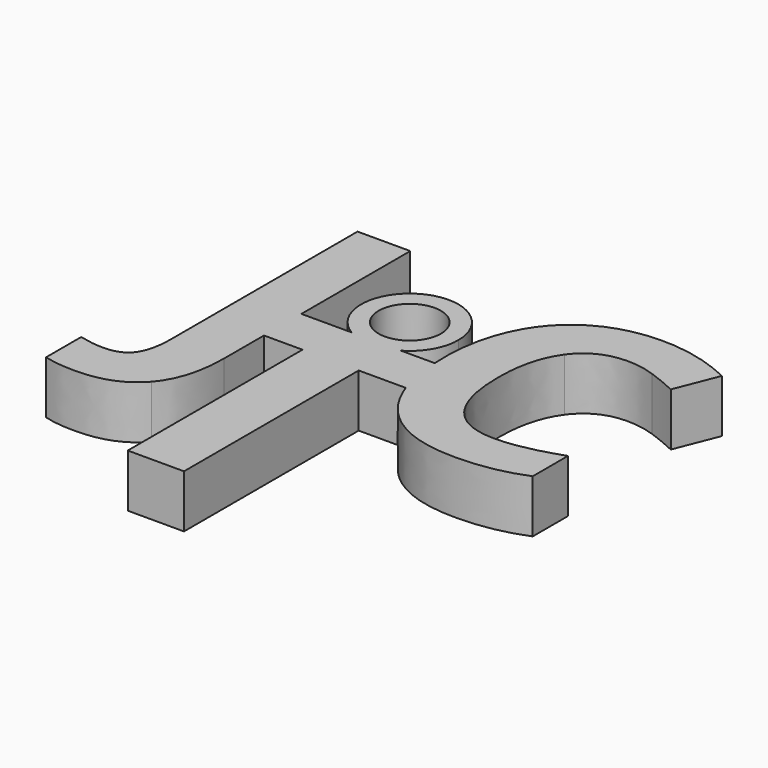
from build123d import *

# Parameters (mm, degrees)
F0_R     = 5.966240135
F0_W     = 6.4319284421
F0_H     = 8.9723766592
F1_DEPTH = 10.16


with BuildPart() as f1:
    # F0 (on Top) → F1 (new body)
    with BuildSketch(Plane.XY):
        with BuildLine():
            ThreePointArc((-100.3382074425, 37.6670937348), (-96.9809881445, 41.0712390667), (-95.7542298135, 45.6922985613))
            ThreePointArc((-95.7542298135, 45.6922985613), (-109.6921719724, 53.7824228946), (-109.804017513, 37.6670937348))
            Line((-109.804017513, 37.6670937348), (-100.3382074425, 37.6670937348))
        make_face()
        with Locations((-105.0711124778, 45.6922985613)):
            Circle(F0_R, mode=Mode.SUBTRACT)
        with BuildLine():
            Line((-100.3382074425, 37.6670937348), (-109.804017513, 37.6670937348))
            ThreePointArc((-109.804017513, 37.6670937348), (-105.0711124778, 36.3754158971), (-100.3382074425, 37.6670937348))
        make_face()
        with BuildLine():
            ThreePointArc((-100.3382074425, 37.6670937348), (-105.0711124778, 36.3754158971), (-109.804017513, 37.6670937348))
            Line((-109.804017513, 37.6670937348), (-119.439290472, 37.6670937348))
            Line((-119.439290472, 37.6670937348), (-119.439290472, 28.6947170757))
            Line((-119.439290472, 28.6947170757), (-112.0564305344, 28.6947170757))
            Line((-112.0564305344, 28.6947170757), (-112.0564305344, -13.194927302))
            Line((-112.0564305344, -13.194927302), (-101.2695409777, -13.194927302))
            Line((-101.2695409777, -13.194927302), (-101.2695409777, 28.6947170757))
            Line((-101.2695409777, 28.6947170757), (-92.2293317184, 28.6947170757))
            add(Edge.make_bspline(
                [(-92.2293317184, 28.6947170757), (-93.6078003439, 32.6255158205), (-93.8712663048, 37.6670937348)],
                knots=[0.4433037515, 0.4433037515, 0.4433037515, 0.8935989479, 0.8935989479, 0.8935989479], degree=2))
            Line((-93.8712663048, 37.6670937348), (-100.3382074425, 37.6670937348))
        make_face()
        with BuildLine():
            Line((-125.871218914, 37.6670937348), (-119.439290472, 37.6670937348))
            Line((-119.439290472, 37.6670937348), (-119.439290472, 63.7718132257))
            Line((-119.439290472, 63.7718132257), (-129.5512871852, 63.7718132257))
            Line((-129.5512871852, 63.7718132257), (-129.5512871852, 19.0974500375))
            add(Edge.make_bspline(
                [(-130.9861680398, 12.622224072), (-129.5512871852, 14.6936702511), (-129.5512871852, 19.0974500375)],
                knots=[0, 0, 0, 1, 1, 1], degree=2))
            add(Edge.make_bspline(
                [(-135.7499724769, 10.5507778929), (-132.4210488943, 10.5507778929), (-130.9861680398, 12.622224072)],
                knots=[0, 0, 0, 1, 1, 1], degree=2))
            add(Edge.make_bspline(
                [(-140.5085591655, 11.1977787146), (-137.8996848845, 10.5507778929), (-135.7499724769, 10.5507778929)],
                knots=[0, 0, 0, 1, 1, 1], degree=2))
            Line((-140.5085591655, 11.1977787146), (-140.5085591655, 2.7867680326))
            add(Edge.make_bspline(
                [(-134.5394548105, 2.066718731), (-137.9622978672, 2.066718731), (-140.5085591655, 2.7867680326)],
                knots=[0, 0, 0, 1, 1, 1], degree=2))
            add(Edge.make_bspline(
                [(-123.2534646708, 6.439192026), (-127.0676388697, 2.066718731), (-134.5394548105, 2.066718731)],
                knots=[0, 0, 0, 1, 1, 1], degree=2))
            add(Edge.make_bspline(
                [(-119.439290472, 19.1600630203), (-119.439290472, 10.811665321), (-123.2534646708, 6.439192026)],
                knots=[0, 0, 0, 1, 1, 1], degree=2))
            Line((-119.439290472, 19.1600630203), (-119.439290472, 28.6947170757))
            Line((-119.439290472, 28.6947170757), (-125.871218914, 28.6947170757))
            Line((-125.871218914, 28.6947170757), (-125.871218914, 37.6670937348))
        make_face()
        with Locations((-122.655254693, 33.1809054053)):
            Rectangle(F0_W, F0_H)
        with BuildLine():
            add(Edge.make_bspline(
                [(-93.8712663048, 37.6670937348), (-93.9335211449, 38.8583771389), (-93.9335211449, 40.1116795692)],
                knots=[0.8935989479, 0.8935989479, 0.8935989479, 1, 1, 1], degree=2))
            Line((-93.8712663048, 37.6670937348), (-87.465884579, 37.6670937348))
            Line((-87.465884579, 37.6670937348), (-87.465884579, 28.6947170757))
            Line((-87.465884579, 28.6947170757), (-92.2293317184, 28.6947170757))
            add(Edge.make_bspline(
                [(-88.4345520727, 22.0317358016), (-90.8722656918, 24.8249493235), (-92.2293317184, 28.6947170757)],
                knots=[0, 0, 0, 0.4433037515, 0.4433037515, 0.4433037515], degree=2))
            add(Edge.make_bspline(
                [(-72.5521129912, 15.7308337398), (-82.9355830005, 15.7308337398), (-88.4345520727, 22.0317358016)],
                knots=[0, 0, 0, 1, 1, 1], degree=2))
            add(Edge.make_bspline(
                [(-59.4712320165, 18.1782915654), (-65.3243013698, 15.7308337398), (-72.5521129912, 15.7308337398)],
                knots=[0, 0, 0, 1, 1, 1], degree=2))
            Line((-59.4712320165, 18.1782915654), (-59.4712320165, 26.6350394567))
            add(Edge.make_bspline(
                [(-71.6043740033, 24.1355080603), (-66.5948964963, 24.1355080603), (-59.4712320165, 26.6350394567)],
                knots=[0, 0, 0, 1, 1, 1], degree=2))
            add(Edge.make_bspline(
                [(-83.5500511355, 40.0491912843), (-83.5500511355, 24.1355080603), (-71.6043740033, 24.1355080603)],
                knots=[0, 0, 0, 1, 1, 1], degree=2))
            add(Edge.make_bspline(
                [(-80.4256368899, 51.9740389881), (-83.5500511355, 47.6935914717), (-83.5500511355, 40.0491912843)],
                knots=[0, 0, 0, 1, 1, 1], degree=2))
            add(Edge.make_bspline(
                [(-71.6043740033, 56.2544865045), (-77.3012226444, 56.2544865045), (-80.4256368899, 51.9740389881)],
                knots=[0, 0, 0, 1, 1, 1], degree=2))
            add(Edge.make_bspline(
                [(-66.3032845001, 55.3119548738), (-69.0006954654, 56.2544865045), (-71.6043740033, 56.2544865045)],
                knots=[0, 0, 0, 1, 1, 1], degree=2))
            add(Edge.make_bspline(
                [(-60.9292919977, 53.0988281165), (-63.6058735347, 54.369423243), (-66.3032845001, 55.3119548738)],
                knots=[0, 0, 0, 1, 1, 1], degree=2))
            Line((-60.9292919977, 53.0988281165), (-57.6799011823, 61.3056228681))
            add(Edge.make_bspline(
                [(-71.6043740033, 64.6487461109), (-64.6785890924, 64.6487461109), (-57.6799011823, 61.3056228681)],
                knots=[0, 0, 0, 1, 1, 1], degree=2))
            add(Edge.make_bspline(
                [(-83.4667334223, 61.6753452205), (-78.4051823445, 64.6487461109), (-71.6043740033, 64.6487461109)],
                knots=[0, 0, 0, 1, 1, 1], degree=2))
            add(Edge.make_bspline(
                [(-91.2309028225, 53.1196575448), (-88.5282845001, 58.7019443302), (-83.4667334223, 61.6753452205)],
                knots=[0, 0, 0, 1, 1, 1], degree=2))
            add(Edge.make_bspline(
                [(-93.9335211449, 40.1116795692), (-93.9335211449, 47.5373707594), (-91.2309028225, 53.1196575448)],
                knots=[0, 0, 0, 1, 1, 1], degree=2))
        make_face()
        with BuildLine():
            Line((-87.465884579, 37.6670937348), (-93.8712663048, 37.6670937348))
            add(Edge.make_bspline(
                [(-92.2293317184, 28.6947170757), (-93.6078003439, 32.6255158205), (-93.8712663048, 37.6670937348)],
                knots=[0.4433037515, 0.4433037515, 0.4433037515, 0.8935989479, 0.8935989479, 0.8935989479], degree=2))
            Line((-92.2293317184, 28.6947170757), (-87.465884579, 28.6947170757))
            Line((-87.465884579, 28.6947170757), (-87.465884579, 37.6670937348))
        make_face()
    extrude(amount=F1_DEPTH)


solid = f1.part
